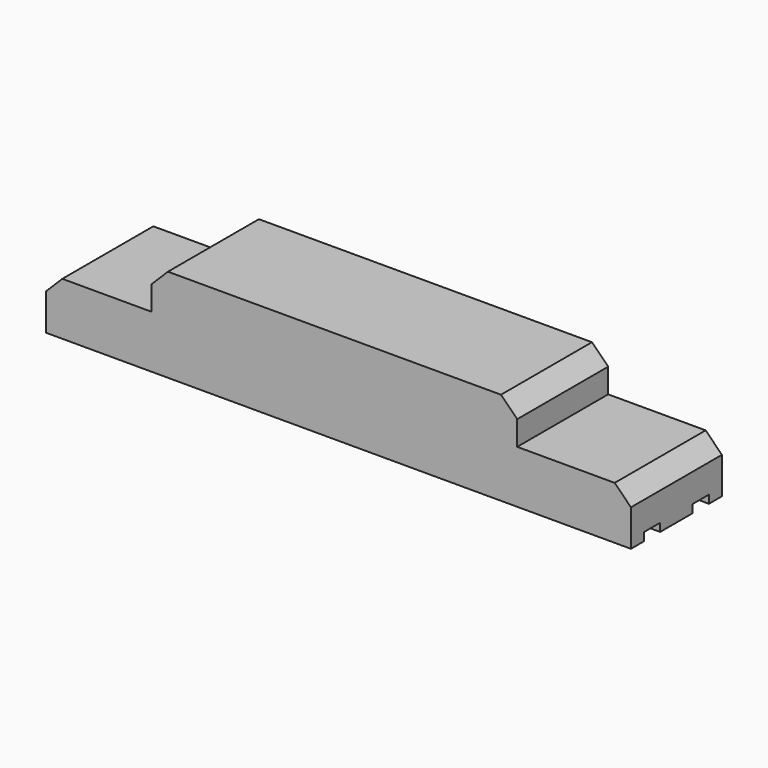
from build123d import *

# Parameters (mm, degrees)
F1_DEPTH = 44.45
F2_SIZE  = 12.7
F3_W     = 15.875
F3_H     = 6.35
F4_DEPTH = 241.3


with BuildPart() as f1:
    # F0 (on Front) → F1 (new body, symmetric)
    with BuildSketch(Plane.XZ):
        Polygon((228.6, -20.6375), (228.6, 20.6375), (139.7, 20.6375), (139.7, 52.3875), (-146.05, 52.3875), (-146.05, 20.6375), (-228.6, 20.6375), (-228.6, -20.6375), align=None)
    extrude(amount=F1_DEPTH, both=True)

    # F2
    f2_edges = [f1.edges().sort_by_distance(p)[0] for p in [
        (-146.05, 0, 52.3875),
        (-228.6, 0, 20.6375),
        (139.7, 0, 52.3875),
        (228.6, 0, 20.6375),
    ]]
    chamfer(f2_edges, length=F2_SIZE)

    # F3 (on Right) → F4 (cut, symmetric)
    with BuildSketch(Plane.YZ):
        with Locations((-23.8125, -17.4625)):
            Rectangle(F3_W, F3_H)
        with Locations((23.8125, -17.4625)):
            Rectangle(F3_W, F3_H)
    extrude(amount=F4_DEPTH, both=True, mode=Mode.SUBTRACT)


solid = f1.part
